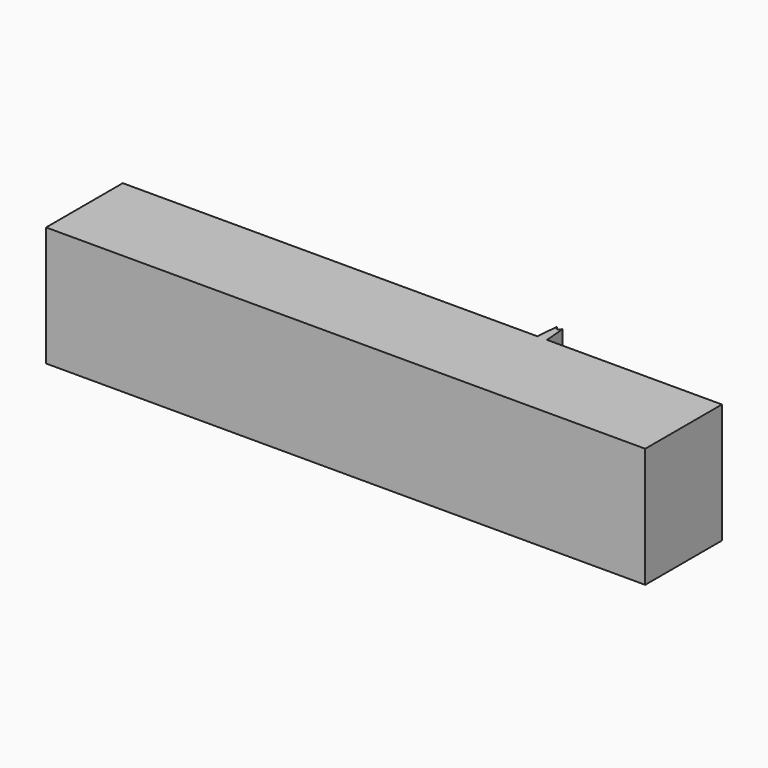
from build123d import *

# Parameters (mm, degrees)
F1_DEPTH = 10


with BuildPart() as f1:
    # F0 (on Top) → F1 (new body)
    with BuildSketch(Plane.XY):
        with BuildLine():
            Line((66.925635, -18.656778), (66.925635, -10.656778))
            Line((66.925635, -10.656778), (52.333115, -10.656778))
            Line((52.333115, -10.656778), (52.175635, -8.856778))
            Line((52.175635, -8.856778), (52.125635, -8.856778))
            ThreePointArc((52.125635, -8.856778), (51.925635, -9.056778), (51.725635, -8.856778))
            Line((51.725635, -8.856778), (51.675635, -8.856778))
            Line((51.675635, -8.856778), (51.518156, -10.656778))
            Line((51.518156, -10.656778), (16.925635, -10.656778))
            Line((16.925635, -10.656778), (16.925635, -18.656778))
            Line((16.925635, -18.656778), (66.925635, -18.656778))
        make_face()
    extrude(amount=F1_DEPTH)


solid = f1.part
